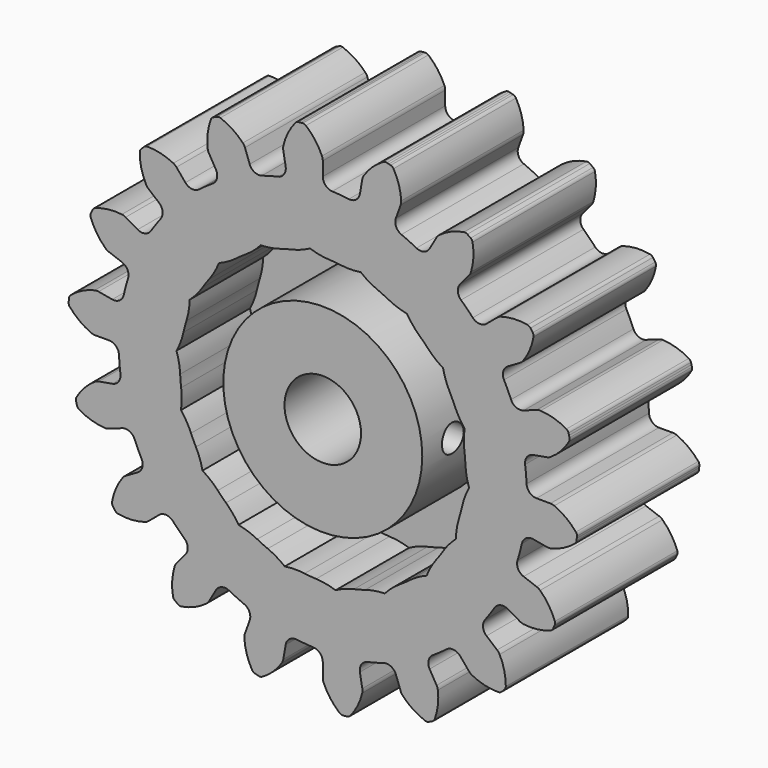
from build123d import *

# Parameters (mm, degrees)
F1_DEPTH = 12.7
F2_R     = 3.175
F3_DEPTH = 25.4
F4_T     = -5.08
F6_R     = 1.1303
F7_DEPTH = 8.255


with BuildPart() as f1:
    # F0 (on Front) → F1 (new body)
    with BuildSketch(Plane.XZ):
        with BuildLine():
            ThreePointArc((-3.0797196834, 17.4659582497), (-3.2056409493, 16.8649768064), (-3.7116884252, 16.517196973))
            ThreePointArc((-3.7116884252, 16.517196973), (-4.3815734964, 16.3522549058), (-5.0441820193, 16.1601563905))
            ThreePointArc((-5.0441820193, 16.1601563905), (-5.6563219057, 16.2083188233), (-6.0658636426, 16.6658233874))
            Line((-6.0658636426, 16.6658233874), (-6.4604760705, 17.7500121225))
            ThreePointArc((-6.4604760705, 17.7500121225), (-6.5329570164, 17.9000057853), (-6.6340767303, 18.0323930577))
            ThreePointArc((-6.6340767303, 18.0323930577), (-7.4943741642, 18.7557709769), (-8.5002443607, 19.2573808219))
            ThreePointArc((-8.5002443607, 19.2573808219), (-8.6463742089, 19.2793392558), (-8.7898680151, 19.2440457306))
            Line((-8.7898680151, 19.2440457306), (-8.9408220296, 19.1736547176))
            Line((-8.9408220296, 19.1736547176), (-9.0917760442, 19.1032637046))
            ThreePointArc((-9.0917760442, 19.1032637046), (-9.2110484938, 19.0160273124), (-9.2881578133, 18.889970745))
            ThreePointArc((-9.2881578133, 18.889970745), (-9.5504632781, 17.7970008772), (-9.549312174, 16.672996445))
            ThreePointArc((-9.549312174, 16.672996445), (-9.5128961389, 16.5104373517), (-9.444584181, 16.3584996578))
            Line((-9.444584181, 16.3584996578), (-8.8676994044, 15.3593059147))
            ThreePointArc((-8.8676994044, 15.3593059147), (-8.7804789295, 14.7515004778), (-9.1370602999, 14.2516159044))
            ThreePointArc((-9.1370602999, 14.2516159044), (-9.7101328486, 13.867506873), (-10.2670796263, 13.4603678537))
            ThreePointArc((-10.2670796263, 13.4603678537), (-10.8587754826, 13.2962615647), (-11.4000946072, 13.586103704))
            Line((-11.4000946072, 13.586103704), (-12.1417233804, 14.4699424588))
            ThreePointArc((-12.1417233804, 14.4699424588), (-12.2611340445, 14.5861004534), (-12.4014346073, 14.6759188173))
            ThreePointArc((-12.4014346073, 14.6759188173), (-13.4572595772, 15.0614326583), (-14.5740290494, 15.1887638594))
            ThreePointArc((-14.5740290494, 15.1887638594), (-14.7188564161, 15.1594186862), (-14.8416253904, 15.0771758488))
            Line((-14.8416253904, 15.0771758488), (-14.9594006196, 14.9594006196))
            Line((-14.9594006196, 14.9594006196), (-15.0771758488, 14.8416253904))
            ThreePointArc((-15.0771758488, 14.8416253904), (-15.1594186862, 14.7188564161), (-15.1887638594, 14.5740290494))
            ThreePointArc((-15.1887638594, 14.5740290494), (-15.0614326583, 13.4572595772), (-14.6759188173, 12.4014346073))
            ThreePointArc((-14.6759188173, 12.4014346073), (-14.5861004534, 12.2611340445), (-14.4699424588, 12.1417233804))
            Line((-14.4699424588, 12.1417233804), (-13.586103704, 11.4000946072))
            ThreePointArc((-13.586103704, 11.4000946072), (-13.2962615647, 10.8587754826), (-13.4603678537, 10.2670796263))
            ThreePointArc((-13.4603678537, 10.2670796263), (-13.867506873, 9.7101328486), (-14.2516159044, 9.1370602999))
            ThreePointArc((-14.2516159044, 9.1370602999), (-14.7515004778, 8.7804789295), (-15.3593059147, 8.8676994044))
            Line((-15.3593059147, 8.8676994044), (-16.3584996578, 9.444584181))
            ThreePointArc((-16.3584996578, 9.444584181), (-16.5104373517, 9.5128961389), (-16.672996445, 9.549312174))
            ThreePointArc((-16.672996445, 9.549312174), (-17.7970008772, 9.5504632781), (-18.889970745, 9.2881578133))
            ThreePointArc((-18.889970745, 9.2881578133), (-19.0160273124, 9.2110484938), (-19.1032637046, 9.0917760442))
            Line((-19.1032637046, 9.0917760442), (-19.1736547176, 8.9408220296))
            Line((-19.1736547176, 8.9408220296), (-19.2440457306, 8.7898680151))
            ThreePointArc((-19.2440457306, 8.7898680151), (-19.2793392558, 8.6463742089), (-19.2573808219, 8.5002443607))
            ThreePointArc((-19.2573808219, 8.5002443607), (-18.7557709769, 7.4943741642), (-18.0323930577, 6.6340767303))
            ThreePointArc((-18.0323930577, 6.6340767303), (-17.9000057853, 6.5329570164), (-17.7500121225, 6.4604760705))
            Line((-17.7500121225, 6.4604760705), (-16.6658233874, 6.0658636426))
            ThreePointArc((-16.6658233874, 6.0658636426), (-16.2083188233, 5.6563219057), (-16.1601563905, 5.0441820193))
            ThreePointArc((-16.1601563905, 5.0441820193), (-16.3522549058, 4.3815734964), (-16.517196973, 3.7116884252))
            ThreePointArc((-16.517196973, 3.7116884252), (-16.8649768064, 3.2056409493), (-17.4659582497, 3.0797196834))
            Line((-17.4659582497, 3.0797196834), (-18.6021994508, 3.2800696637))
            ThreePointArc((-18.6021994508, 3.2800696637), (-18.7683382462, 3.2922961546), (-18.9335488441, 3.2709175497))
            ThreePointArc((-18.9335488441, 3.2709175497), (-19.9901612157, 2.8875670768), (-20.9275031825, 2.2672628562))
            ThreePointArc((-20.9275031825, 2.2672628562), (-21.0195846682, 2.1516899124), (-21.0607664818, 2.0097738684))
            Line((-21.0607664818, 2.0097738684), (-21.0752830837, 1.8438483504))
            Line((-21.0752830837, 1.8438483504), (-21.0897996855, 1.6779228325))
            ThreePointArc((-21.0897996855, 1.6779228325), (-21.0738869785, 1.5310116651), (-21.0032734485, 1.4012047519))
            ThreePointArc((-21.0032734485, 1.4012047519), (-20.1878865099, 0.6275566218), (-19.2138945656, 0.0665512911))
            ThreePointArc((-19.2138945656, 0.0665512911), (-19.0549062436, 0.016808956), (-18.889168362, 0))
            Line((-18.889168362, 0), (-17.7353988089, 0))
            ThreePointArc((-17.7353988089, 0), (-17.1654136224, -0.2283675714), (-16.9107915681, -0.7871183834))
            ThreePointArc((-16.9107915681, -0.7871183834), (-16.8646796635, -1.4754682845), (-16.7905603187, -2.1613678522))
            ThreePointArc((-16.7905603187, -2.1613678522), (-16.9442880317, -2.7558446396), (-17.4659582497, -3.0797196834))
            Line((-17.4659582497, -3.0797196834), (-18.6021994508, -3.2800696637))
            ThreePointArc((-18.6021994508, -3.2800696637), (-18.7625005571, -3.325403335), (-18.9104358233, -3.4019980047))
            ThreePointArc((-18.9104358233, -3.4019980047), (-19.7722130881, -4.12361233), (-20.4408698791, -5.0270974626))
            ThreePointArc((-20.4408698791, -5.0270974626), (-20.4878698969, -5.1671942279), (-20.4780299976, -5.3146366971))
            Line((-20.4780299976, -5.3146366971), (-20.4349212718, -5.4755206522))
            Line((-20.4349212718, -5.4755206522), (-20.3918125459, -5.6364046072))
            ThreePointArc((-20.3918125459, -5.6364046072), (-20.3266129141, -5.7690134808), (-20.215861322, -5.8668408296))
            ThreePointArc((-20.215861322, -5.8668408296), (-19.1850449884, -6.3149535109), (-18.0779168219, -6.509001216))
            ThreePointArc((-18.0779168219, -6.509001216), (-17.9115037884, -6.5013665126), (-17.7500121225, -6.4604760705))
            Line((-17.7500121225, -6.4604760705), (-16.6658233874, -6.0658636426))
            ThreePointArc((-16.6658233874, -6.0658636426), (-16.0521062042, -6.0855125491), (-15.6217357059, -6.5234806925))
            ThreePointArc((-15.6217357059, -6.5234806925), (-15.3429751575, -7.1545468148), (-15.0387342878, -7.7737312682))
            ThreePointArc((-15.0387342878, -7.7737312682), (-14.9798680492, -8.384934693), (-15.3593059147, -8.8676994044))
            Line((-15.3593059147, -8.8676994044), (-16.3584996578, -9.444584181))
            ThreePointArc((-16.3584996578, -9.444584181), (-16.4936283957, -9.5420101047), (-16.6064451538, -9.6645823915))
            ThreePointArc((-16.6064451538, -9.6645823915), (-17.1694442554, -10.6374232318), (-17.4887659931, -11.7151156353))
            ThreePointArc((-17.4887659931, -11.7151156353), (-17.4850156473, -11.8628384847), (-17.4253408721, -11.9980236412))
            Line((-17.4253408721, -11.9980236412), (-17.3298063672, -12.134461054))
            Line((-17.3298063672, -12.134461054), (-17.2342718623, -12.2708984668))
            ThreePointArc((-17.2342718623, -12.2708984668), (-17.1276493434, -12.3732104593), (-16.9901179657, -12.4272588217))
            ThreePointArc((-16.9901179657, -12.4272588217), (-15.8682039001, -12.4957870514), (-14.761475508, -12.2994721138))
            ThreePointArc((-14.761475508, -12.2994721138), (-14.6077096307, -12.2353812298), (-14.4699424588, -12.1417233804))
            Line((-14.4699424588, -12.1417233804), (-13.586103704, -11.4000946072))
            ThreePointArc((-13.586103704, -11.4000946072), (-13.0026778739, -11.2086549007), (-12.4484679653, -11.4730149537))
            ThreePointArc((-12.4484679653, -11.4730149537), (-11.9706814094, -11.9706814094), (-11.4730149537, -12.4484679653))
            ThreePointArc((-11.4730149537, -12.4484679653), (-11.2086549007, -13.0026778739), (-11.4000946072, -13.586103704))
            Line((-11.4000946072, -13.586103704), (-12.1417233804, -14.4699424588))
            ThreePointArc((-12.1417233804, -14.4699424588), (-12.2353812298, -14.6077096307), (-12.2994721138, -14.761475508))
            ThreePointArc((-12.2994721138, -14.761475508), (-12.4957870514, -15.8682039001), (-12.4272588217, -16.9901179657))
            ThreePointArc((-12.4272588217, -16.9901179657), (-12.3732104593, -17.1276493434), (-12.2708984668, -17.2342718623))
            Line((-12.2708984668, -17.2342718623), (-12.134461054, -17.3298063672))
            Line((-12.134461054, -17.3298063672), (-11.9980236412, -17.4253408721))
            ThreePointArc((-11.9980236412, -17.4253408721), (-11.8628384847, -17.4850156473), (-11.7151156353, -17.4887659931))
            ThreePointArc((-11.7151156353, -17.4887659931), (-10.6374232318, -17.1694442554), (-9.6645823915, -16.6064451538))
            ThreePointArc((-9.6645823915, -16.6064451538), (-9.5420101047, -16.4936283957), (-9.444584181, -16.3584996578))
            Line((-9.444584181, -16.3584996578), (-8.8676994044, -15.3593059147))
            ThreePointArc((-8.8676994044, -15.3593059147), (-8.384934693, -14.9798680492), (-7.7737312682, -15.0387342878))
            ThreePointArc((-7.7737312682, -15.0387342878), (-7.1545468148, -15.3429751575), (-6.5234806925, -15.6217357059))
            ThreePointArc((-6.5234806925, -15.6217357059), (-6.0855125491, -16.0521062042), (-6.0658636426, -16.6658233874))
            Line((-6.0658636426, -16.6658233874), (-6.4604760705, -17.7500121225))
            ThreePointArc((-6.4604760705, -17.7500121225), (-6.5013665126, -17.9115037884), (-6.509001216, -18.0779168219))
            ThreePointArc((-6.509001216, -18.0779168219), (-6.3149535109, -19.1850449884), (-5.8668408296, -20.215861322))
            ThreePointArc((-5.8668408296, -20.215861322), (-5.7690134808, -20.3266129141), (-5.6364046072, -20.3918125459))
            Line((-5.6364046072, -20.3918125459), (-5.4755206522, -20.4349212718))
            Line((-5.4755206522, -20.4349212718), (-5.3146366971, -20.4780299976))
            ThreePointArc((-5.3146366971, -20.4780299976), (-5.1671942279, -20.4878698969), (-5.0270974626, -20.4408698791))
            ThreePointArc((-5.0270974626, -20.4408698791), (-4.12361233, -19.7722130881), (-3.4019980047, -18.9104358233))
            ThreePointArc((-3.4019980047, -18.9104358233), (-3.325403335, -18.7625005571), (-3.2800696637, -18.6021994508))
            Line((-3.2800696637, -18.6021994508), (-3.0797196834, -17.4659582497))
            ThreePointArc((-3.0797196834, -17.4659582497), (-2.7558446396, -16.9442880317), (-2.1613678522, -16.7905603187))
            ThreePointArc((-2.1613678522, -16.7905603187), (-1.4754682845, -16.8646796635), (-0.7871183834, -16.9107915681))
            ThreePointArc((-0.7871183834, -16.9107915681), (-0.2283675714, -17.1654136224), (0, -17.7353988089))
            Line((0, -17.7353988089), (0, -18.889168362))
            ThreePointArc((0, -18.889168362), (0.016808956, -19.0549062436), (0.0665512911, -19.2138945656))
            ThreePointArc((0.0665512911, -19.2138945656), (0.6275566218, -20.1878865099), (1.4012047519, -21.0032734485))
            ThreePointArc((1.4012047519, -21.0032734485), (1.5310116651, -21.0738869785), (1.6779228325, -21.0897996855))
            Line((1.6779228325, -21.0897996855), (1.8438483504, -21.0752830837))
            Line((1.8438483504, -21.0752830837), (2.0097738684, -21.0607664818))
            ThreePointArc((2.0097738684, -21.0607664818), (2.1516899124, -21.0195846682), (2.2672628562, -20.9275031825))
            ThreePointArc((2.2672628562, -20.9275031825), (2.8875670768, -19.9901612157), (3.2709175497, -18.9335488441))
            ThreePointArc((3.2709175497, -18.9335488441), (3.2922961546, -18.7683382462), (3.2800696637, -18.6021994508))
            Line((3.2800696637, -18.6021994508), (3.0797196834, -17.4659582497))
            ThreePointArc((3.0797196834, -17.4659582497), (3.2056409493, -16.8649768064), (3.7116884252, -16.517196973))
            ThreePointArc((3.7116884252, -16.517196973), (4.3815734964, -16.3522549058), (5.0441820193, -16.1601563905))
            ThreePointArc((5.0441820193, -16.1601563905), (5.6563219057, -16.2083188233), (6.0658636426, -16.6658233874))
            Line((6.0658636426, -16.6658233874), (6.4604760705, -17.7500121225))
            ThreePointArc((6.4604760705, -17.7500121225), (6.5329570164, -17.9000057853), (6.6340767303, -18.0323930577))
            ThreePointArc((6.6340767303, -18.0323930577), (7.4943741642, -18.7557709769), (8.5002443607, -19.2573808219))
            ThreePointArc((8.5002443607, -19.2573808219), (8.6463742089, -19.2793392558), (8.7898680151, -19.2440457306))
            Line((8.7898680151, -19.2440457306), (8.9408220296, -19.1736547176))
            Line((8.9408220296, -19.1736547176), (9.0917760442, -19.1032637046))
            ThreePointArc((9.0917760442, -19.1032637046), (9.2110484938, -19.0160273124), (9.2881578133, -18.889970745))
            ThreePointArc((9.2881578133, -18.889970745), (9.5504632781, -17.7970008772), (9.549312174, -16.672996445))
            ThreePointArc((9.549312174, -16.672996445), (9.5128961389, -16.5104373517), (9.444584181, -16.3584996578))
            Line((9.444584181, -16.3584996578), (8.8676994044, -15.3593059147))
            ThreePointArc((8.8676994044, -15.3593059147), (8.7804789295, -14.7515004778), (9.1370602999, -14.2516159044))
            ThreePointArc((9.1370602999, -14.2516159044), (9.7101328486, -13.867506873), (10.2670796263, -13.4603678537))
            ThreePointArc((10.2670796263, -13.4603678537), (10.8587754826, -13.2962615647), (11.4000946072, -13.586103704))
            Line((11.4000946072, -13.586103704), (12.1417233804, -14.4699424588))
            ThreePointArc((12.1417233804, -14.4699424588), (12.2611340445, -14.5861004534), (12.4014346073, -14.6759188173))
            ThreePointArc((12.4014346073, -14.6759188173), (13.4572595772, -15.0614326583), (14.5740290494, -15.1887638594))
            ThreePointArc((14.5740290494, -15.1887638594), (14.7188564161, -15.1594186862), (14.8416253904, -15.0771758488))
            Line((14.8416253904, -15.0771758488), (14.9594006196, -14.9594006196))
            Line((14.9594006196, -14.9594006196), (15.0771758488, -14.8416253904))
            ThreePointArc((15.0771758488, -14.8416253904), (15.1594186862, -14.7188564161), (15.1887638594, -14.5740290494))
            ThreePointArc((15.1887638594, -14.5740290494), (15.0614326583, -13.4572595772), (14.6759188173, -12.4014346073))
            ThreePointArc((14.6759188173, -12.4014346073), (14.5861004534, -12.2611340445), (14.4699424588, -12.1417233804))
            Line((14.4699424588, -12.1417233804), (13.586103704, -11.4000946072))
            ThreePointArc((13.586103704, -11.4000946072), (13.2962615647, -10.8587754826), (13.4603678537, -10.2670796263))
            ThreePointArc((13.4603678537, -10.2670796263), (13.867506873, -9.7101328486), (14.2516159044, -9.1370602999))
            ThreePointArc((14.2516159044, -9.1370602999), (14.7515004778, -8.7804789295), (15.3593059147, -8.8676994044))
            Line((15.3593059147, -8.8676994044), (16.3584996578, -9.444584181))
            ThreePointArc((16.3584996578, -9.444584181), (16.5104373517, -9.5128961389), (16.672996445, -9.549312174))
            ThreePointArc((16.672996445, -9.549312174), (17.7970008772, -9.5504632781), (18.889970745, -9.2881578133))
            ThreePointArc((18.889970745, -9.2881578133), (19.0160273124, -9.2110484938), (19.1032637046, -9.0917760442))
            Line((19.1032637046, -9.0917760442), (19.1736547176, -8.9408220296))
            Line((19.1736547176, -8.9408220296), (19.2440457306, -8.7898680151))
            ThreePointArc((19.2440457306, -8.7898680151), (19.2793392558, -8.6463742089), (19.2573808219, -8.5002443607))
            ThreePointArc((19.2573808219, -8.5002443607), (18.7557709769, -7.4943741642), (18.0323930577, -6.6340767303))
            ThreePointArc((18.0323930577, -6.6340767303), (17.9000057853, -6.5329570164), (17.7500121225, -6.4604760705))
            Line((17.7500121225, -6.4604760705), (16.6658233874, -6.0658636426))
            ThreePointArc((16.6658233874, -6.0658636426), (16.2083188233, -5.6563219057), (16.1601563905, -5.0441820193))
            ThreePointArc((16.1601563905, -5.0441820193), (16.3522549058, -4.3815734964), (16.517196973, -3.7116884252))
            ThreePointArc((16.517196973, -3.7116884252), (16.8649768064, -3.2056409493), (17.4659582497, -3.0797196834))
            Line((17.4659582497, -3.0797196834), (18.6021994508, -3.2800696637))
            ThreePointArc((18.6021994508, -3.2800696637), (18.7683382462, -3.2922961546), (18.9335488441, -3.2709175497))
            ThreePointArc((18.9335488441, -3.2709175497), (19.9901612157, -2.8875670768), (20.9275031825, -2.2672628562))
            ThreePointArc((20.9275031825, -2.2672628562), (21.0195846682, -2.1516899124), (21.0607664818, -2.0097738684))
            Line((21.0607664818, -2.0097738684), (21.0752830837, -1.8438483504))
            Line((21.0752830837, -1.8438483504), (21.0897996855, -1.6779228325))
            ThreePointArc((21.0897996855, -1.6779228325), (21.0738869785, -1.5310116651), (21.0032734485, -1.4012047519))
            ThreePointArc((21.0032734485, -1.4012047519), (20.1878865099, -0.6275566218), (19.2138945656, -0.0665512911))
            ThreePointArc((19.2138945656, -0.0665512911), (19.0549062436, -0.016808956), (18.889168362, 0))
            Line((18.889168362, 0), (17.7353988089, 0))
            ThreePointArc((17.7353988089, 0), (17.1654136224, 0.2283675714), (16.9107915681, 0.7871183834))
            ThreePointArc((16.9107915681, 0.7871183834), (16.8646796635, 1.4754682845), (16.7905603187, 2.1613678522))
            ThreePointArc((16.7905603187, 2.1613678522), (16.9442880317, 2.7558446396), (17.4659582497, 3.0797196834))
            Line((17.4659582497, 3.0797196834), (18.6021994508, 3.2800696637))
            ThreePointArc((18.6021994508, 3.2800696637), (18.7625005571, 3.325403335), (18.9104358233, 3.4019980047))
            ThreePointArc((18.9104358233, 3.4019980047), (19.7722130881, 4.12361233), (20.4408698791, 5.0270974626))
            ThreePointArc((20.4408698791, 5.0270974626), (20.4878698969, 5.1671942279), (20.4780299976, 5.3146366971))
            Line((20.4780299976, 5.3146366971), (20.4349212718, 5.4755206522))
            Line((20.4349212718, 5.4755206522), (20.3918125459, 5.6364046072))
            ThreePointArc((20.3918125459, 5.6364046072), (20.3266129141, 5.7690134808), (20.215861322, 5.8668408296))
            ThreePointArc((20.215861322, 5.8668408296), (19.1850449884, 6.3149535109), (18.0779168219, 6.509001216))
            ThreePointArc((18.0779168219, 6.509001216), (17.9115037884, 6.5013665126), (17.7500121225, 6.4604760705))
            Line((17.7500121225, 6.4604760705), (16.6658233874, 6.0658636426))
            ThreePointArc((16.6658233874, 6.0658636426), (16.0521062042, 6.0855125491), (15.6217357059, 6.5234806925))
            ThreePointArc((15.6217357059, 6.5234806925), (15.3429751575, 7.1545468148), (15.0387342878, 7.7737312682))
            ThreePointArc((15.0387342878, 7.7737312682), (14.9798680492, 8.384934693), (15.3593059147, 8.8676994044))
            Line((15.3593059147, 8.8676994044), (16.3584996578, 9.444584181))
            ThreePointArc((16.3584996578, 9.444584181), (16.4936283957, 9.5420101047), (16.6064451538, 9.6645823915))
            ThreePointArc((16.6064451538, 9.6645823915), (17.1694442554, 10.6374232318), (17.4887659931, 11.7151156353))
            ThreePointArc((17.4887659931, 11.7151156353), (17.4850156473, 11.8628384847), (17.4253408721, 11.9980236412))
            Line((17.4253408721, 11.9980236412), (17.3298063672, 12.134461054))
            Line((17.3298063672, 12.134461054), (17.2342718623, 12.2708984668))
            ThreePointArc((17.2342718623, 12.2708984668), (17.1276493434, 12.3732104593), (16.9901179657, 12.4272588217))
            ThreePointArc((16.9901179657, 12.4272588217), (15.8682039001, 12.4957870514), (14.761475508, 12.2994721138))
            ThreePointArc((14.761475508, 12.2994721138), (14.6077096307, 12.2353812298), (14.4699424588, 12.1417233804))
            Line((14.4699424588, 12.1417233804), (13.586103704, 11.4000946072))
            ThreePointArc((13.586103704, 11.4000946072), (13.0026778739, 11.2086549007), (12.4484679653, 11.4730149537))
            ThreePointArc((12.4484679653, 11.4730149537), (11.9706814094, 11.9706814094), (11.4730149537, 12.4484679653))
            ThreePointArc((11.4730149537, 12.4484679653), (11.2086549007, 13.0026778739), (11.4000946072, 13.586103704))
            Line((11.4000946072, 13.586103704), (12.1417233804, 14.4699424588))
            ThreePointArc((12.1417233804, 14.4699424588), (12.2353812298, 14.6077096307), (12.2994721138, 14.761475508))
            ThreePointArc((12.2994721138, 14.761475508), (12.4957870514, 15.8682039001), (12.4272588217, 16.9901179657))
            ThreePointArc((12.4272588217, 16.9901179657), (12.3732104593, 17.1276493434), (12.2708984668, 17.2342718623))
            Line((12.2708984668, 17.2342718623), (12.134461054, 17.3298063672))
            Line((12.134461054, 17.3298063672), (11.9980236412, 17.4253408721))
            ThreePointArc((11.9980236412, 17.4253408721), (11.8628384847, 17.4850156473), (11.7151156353, 17.4887659931))
            ThreePointArc((11.7151156353, 17.4887659931), (10.6374232318, 17.1694442554), (9.6645823915, 16.6064451538))
            ThreePointArc((9.6645823915, 16.6064451538), (9.5420101047, 16.4936283957), (9.444584181, 16.3584996578))
            Line((9.444584181, 16.3584996578), (8.8676994044, 15.3593059147))
            ThreePointArc((8.8676994044, 15.3593059147), (8.384934693, 14.9798680492), (7.7737312682, 15.0387342878))
            ThreePointArc((7.7737312682, 15.0387342878), (7.1545468148, 15.3429751575), (6.5234806925, 15.6217357059))
            ThreePointArc((6.5234806925, 15.6217357059), (6.0855125491, 16.0521062042), (6.0658636426, 16.6658233874))
            Line((6.0658636426, 16.6658233874), (6.4604760705, 17.7500121225))
            ThreePointArc((6.4604760705, 17.7500121225), (6.5013665126, 17.9115037884), (6.509001216, 18.0779168219))
            ThreePointArc((6.509001216, 18.0779168219), (6.3149535109, 19.1850449884), (5.8668408296, 20.215861322))
            ThreePointArc((5.8668408296, 20.215861322), (5.7690134808, 20.3266129141), (5.6364046072, 20.3918125459))
            Line((5.6364046072, 20.3918125459), (5.4755206522, 20.4349212718))
            Line((5.4755206522, 20.4349212718), (5.3146366971, 20.4780299976))
            ThreePointArc((5.3146366971, 20.4780299976), (5.1671942279, 20.4878698969), (5.0270974626, 20.4408698791))
            ThreePointArc((5.0270974626, 20.4408698791), (4.12361233, 19.7722130881), (3.4019980047, 18.9104358233))
            ThreePointArc((3.4019980047, 18.9104358233), (3.325403335, 18.7625005571), (3.2800696637, 18.6021994508))
            Line((3.2800696637, 18.6021994508), (3.0797196834, 17.4659582497))
            ThreePointArc((3.0797196834, 17.4659582497), (2.7558446396, 16.9442880317), (2.1613678522, 16.7905603187))
            ThreePointArc((2.1613678522, 16.7905603187), (1.4754682845, 16.8646796635), (0.7871183834, 16.9107915681))
            ThreePointArc((0.7871183834, 16.9107915681), (0.2283675714, 17.1654136224), (0, 17.7353988089))
            Line((0, 17.7353988089), (0, 18.889168362))
            ThreePointArc((0, 18.889168362), (-0.016808956, 19.0549062436), (-0.0665512911, 19.2138945656))
            ThreePointArc((-0.0665512911, 19.2138945656), (-0.6275566218, 20.1878865099), (-1.4012047519, 21.0032734485))
            ThreePointArc((-1.4012047519, 21.0032734485), (-1.5310116651, 21.0738869785), (-1.6779228325, 21.0897996855))
            Line((-1.6779228325, 21.0897996855), (-1.8438483504, 21.0752830837))
            Line((-1.8438483504, 21.0752830837), (-2.0097738684, 21.0607664818))
            ThreePointArc((-2.0097738684, 21.0607664818), (-2.1516899124, 21.0195846682), (-2.2672628562, 20.9275031825))
            ThreePointArc((-2.2672628562, 20.9275031825), (-2.8875670768, 19.9901612157), (-3.2709175497, 18.9335488441))
            ThreePointArc((-3.2709175497, 18.9335488441), (-3.2922961546, 18.7683382462), (-3.2800696637, 18.6021994508))
            Line((-3.2800696637, 18.6021994508), (-3.0797196834, 17.4659582497))
        make_face()
    extrude(amount=F1_DEPTH)

    # F2 (on face) → F3 (cut)
    with BuildSketch(Plane.XZ.offset(12.7)):
        Circle(F2_R)
    extrude(amount=-F3_DEPTH, mode=Mode.SUBTRACT)

    # F4
    f4_openings = [f1.faces().sort_by_distance(p)[0] for p in [
        (19.858698, -12.7, 5.321122),
    ]]
    offset(amount=F4_T, openings=f4_openings)

    # F6 (on offset) → F7 (cut)
    with BuildSketch(Plane.YZ.offset(8.255)):
        with Locations((-9.525, 0)):
            Circle(F6_R)
    extrude(amount=-F7_DEPTH, mode=Mode.SUBTRACT)


solid = f1.part
